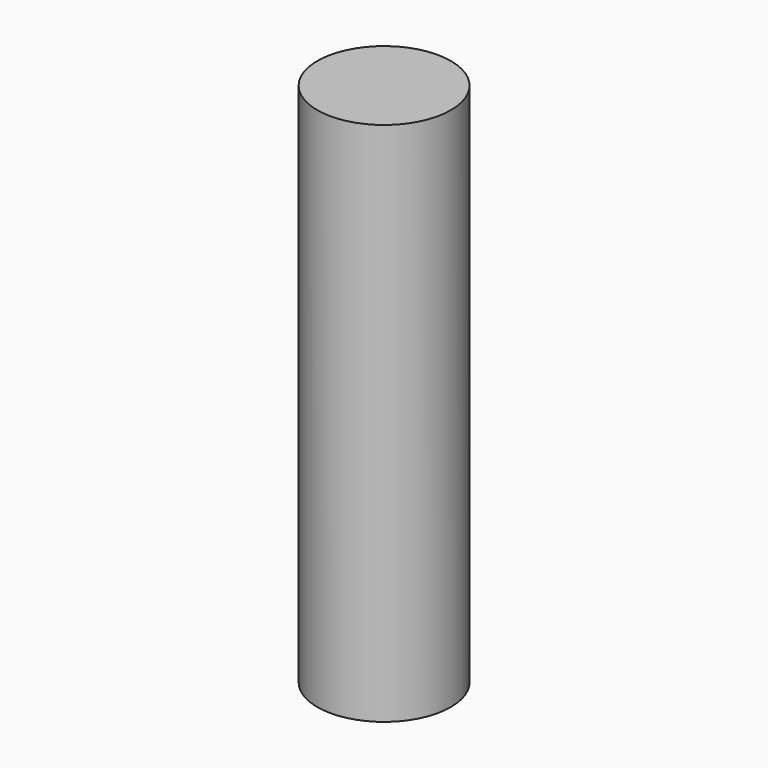
from build123d import *

# Parameters (mm, degrees)
CYLINDER_R     = 1.905
CYLINDER_DEPTH = 15


with BuildPart() as part:
    # Cylinder → Cylinder (new body)
    with BuildSketch(Plane.XY.offset(-2.5)):
        Circle(CYLINDER_R)
    extrude(amount=CYLINDER_DEPTH)


solid = part.part
